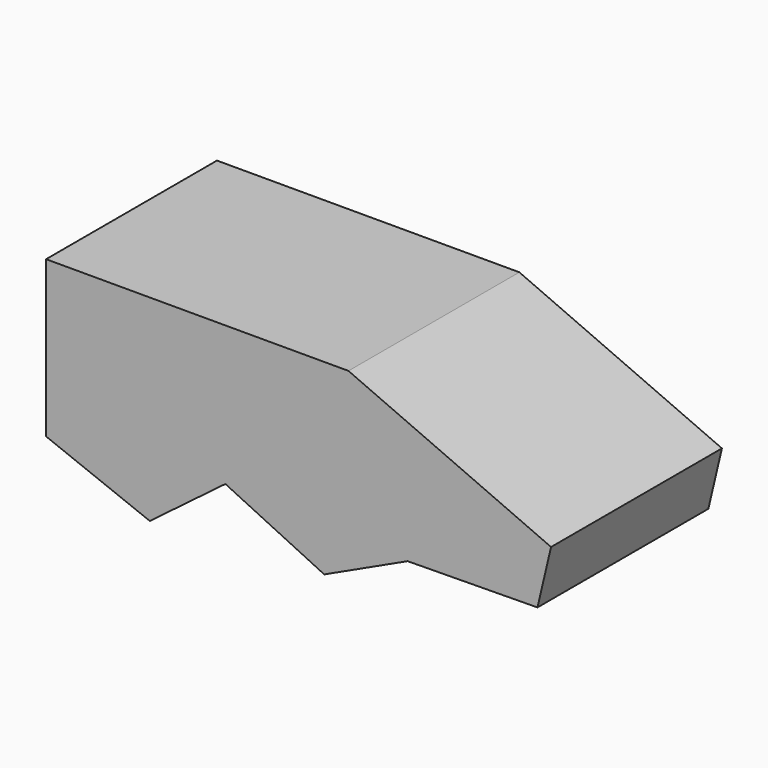
from build123d import *

# Parameters (mm, degrees)
F1_DEPTH = 45.72


with BuildPart() as f1:
    # F0 (on Front) → F1 (new body)
    with BuildSketch(Plane.XZ):
        Polygon((57.674158, 18.161428), (60.577482, 30.496158), (17.218933, 49.582221), (-47.507703, 49.582221), (-47.507703, 29.251419), (-47.507703, 16.181618), (-25.309786, 7.468417), (-9.128124, 19.708388), (12.032494, 9.542987), (29.873818, 17.841272), align=None)
        Polygon((57.674158, 18.161428), (60.577482, 30.496158), (17.218933, 49.582221), (-47.507703, 49.582221), (-47.507703, 29.251419), (-47.507703, 16.181618), (-25.309786, 7.468417), (-9.128124, 19.708388), (12.032494, 9.542987), (29.873818, 17.841272), align=None)
    extrude(amount=F1_DEPTH)


solid = f1.part
